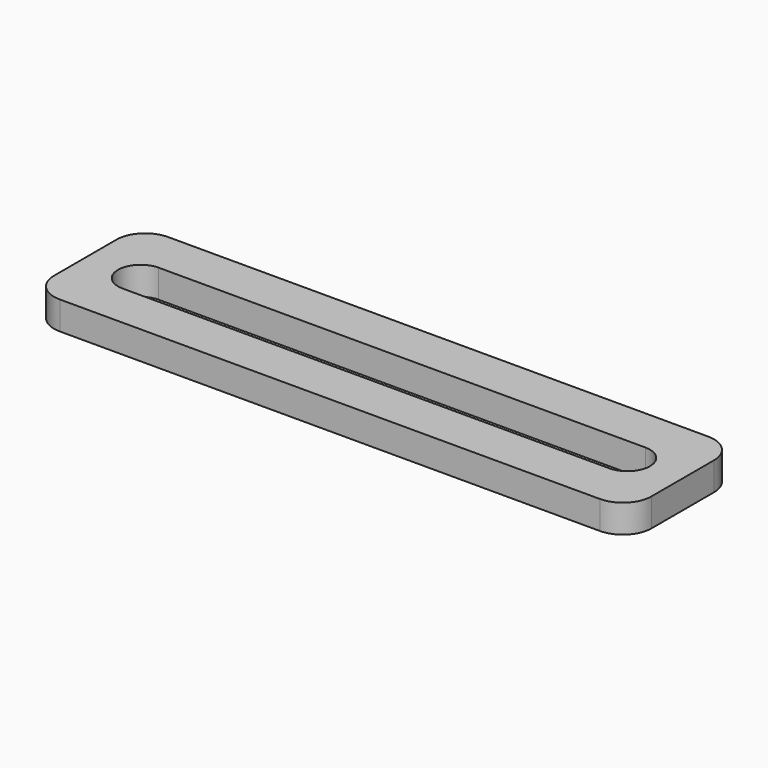
from build123d import *

# Parameters (mm, degrees)
F0_W     = 53
F0_H     = 12
F1_DEPTH = 2.5
F2_R     = 2.54


with BuildPart() as f1:
    # F0 (on Top) → F1 (new body)
    with BuildSketch(Plane.XY):
        with Locations((-32.425053, 18.900206)):
            Rectangle(F0_W, F0_H)
        with BuildLine():
            Line((-54.015053, 20.900206), (-10.835053, 20.900206))
            ThreePointArc((-10.835053, 20.900206), (-8.835053, 18.900206), (-10.835053, 16.900206))
            Line((-10.835053, 16.900206), (-54.015053, 16.900206))
            ThreePointArc((-54.015053, 16.900206), (-56.015053, 18.900206), (-54.015053, 20.900206))
        make_face(mode=Mode.SUBTRACT)
    extrude(amount=F1_DEPTH)

    # F2
    f2_edges = [f1.edges().sort_by_distance(p)[0] for p in [
        (-58.925053, 24.900206, 1.25),
        (-58.925053, 12.900206, 1.25),
        (-5.925053, 12.900206, 1.25),
        (-5.925053, 24.900206, 1.25),
    ]]
    fillet(f2_edges, radius=F2_R)


solid = f1.part
